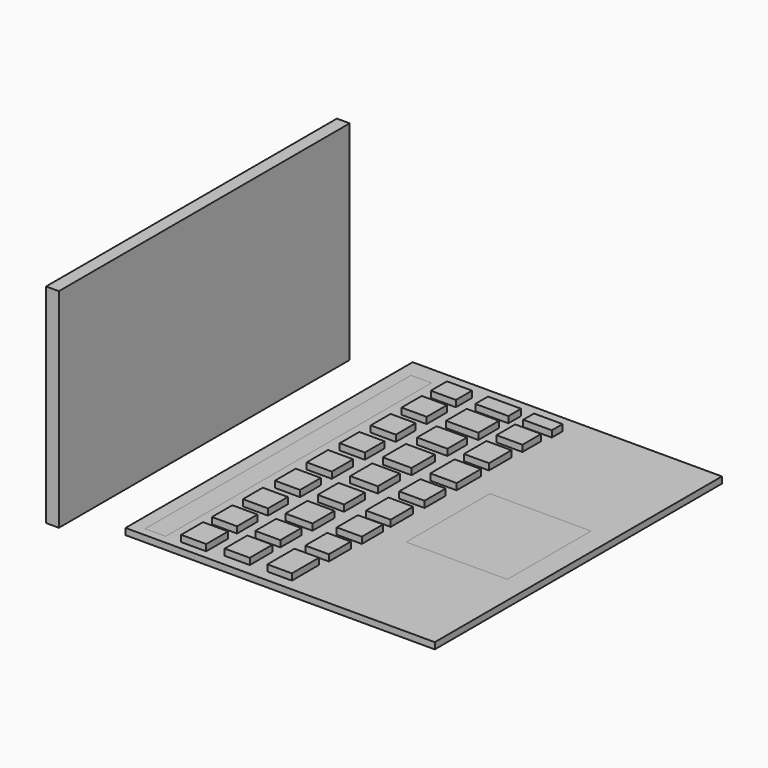
from build123d import *

# Parameters (mm, degrees)
F0_W      = 144.271791
F0_H      = 82.681909
F2_DEPTH  = 5.08
F1_W      = 40.154845
F1_H      = 41.569267
F3_DEPTH  = 2.54
F1_W_2    = 8.139372
F1_H_2    = 131.888136
F4_DEPTH  = 2.54
F1_W_3    = 9.963132
F1_H_3    = 10.002887
F5_DEPTH  = 5.08
F1_H_4    = 9.845652
F6_DEPTH  = 5.08
F1_H_5    = 10.589674
F7_DEPTH  = 5.08
F1_H_6    = 10.29627
F8_DEPTH  = 5.08
F1_H_7    = 9.709492
F9_DEPTH  = 5.08
F1_H_8    = 9.845651
F10_DEPTH = 5.08
F1_H_9    = 10.114737
F11_DEPTH = 5.08
F1_H_10   = 10.865256
F12_DEPTH = 5.08
F1_H_11   = 8.026641
F13_DEPTH = 5.08
F1_W_4    = 13.105952
F1_H_12   = 6.305161
F14_DEPTH = 5.08
F1_W_5    = 12.827978
F1_H_13   = 10.250882
F15_DEPTH = 5.08
F1_W_6    = 11.449412
F1_H_14   = 11.51523
F1_W_7    = 12.054004
F1_W_8    = 10.427423
F1_H_15   = 12.056619
F1_W_9    = 10.083005
F1_H_16   = 10.498893
F1_W_10   = 9.81719
F1_H_17   = 11.176452
F1_W_11   = 10.935597
F1_H_18   = 10.928448
F16_DEPTH = 5.08
F1_W_12   = 11.339948
F1_H_19   = 5.35202
F1_W_13   = 10.293655
F1_H_20   = 9.279936
F17_DEPTH = 5.08
F1_W_14   = 9.93707
F1_H_21   = 11.131063
F18_DEPTH = 5.08
F1_W_15   = 10.421783
F1_H_22   = 10.296278
F1_W_16   = 10.742769
F1_H_23   = 10.883055
F1_W_17   = 9.364203
F1_H_24   = 10.883056
F1_W_18   = 9.690806
F1_H_25   = 13.43932
F19_DEPTH = 5.08
F1_W_19   = 9.96878
F1_H_26   = 10.498889
F20_DEPTH = 5.08
F1_W_20   = 9.950973
F1_H_27   = 11.221833
F1_H_28   = 10.387056
F21_DEPTH = 5.08
F1_W_21   = 122.738719
F1_H_29   = 142.450686
F22_DEPTH = 2.54


with BuildPart() as f2:
    # F0 (on Right) → F2 (new body)
    with BuildSketch(Plane.YZ):
        with Locations((-72.135896, 41.340954)):
            Rectangle(F0_W, F0_H)
    extrude(amount=F2_DEPTH)


with BuildPart() as f3:
    # F1 (on Top) → F3 (new body)
    with BuildSketch(Plane.XY):
        with Locations((118.206426, -67.516102)):
            Rectangle(F1_W, F1_H)
    extrude(amount=F3_DEPTH)


with BuildPart() as f4:
    # F1 (on Top) → F4 (new body)
    with BuildSketch(Plane.XY):
        with Locations((33.478685, -65.944068)):
            Rectangle(F1_W_2, F1_H_2)
    extrude(amount=F4_DEPTH)


with BuildPart() as f5:
    # F1 (on Top) → F5 (new body)
    with BuildSketch(Plane.XY):
        with Locations((48.667062, -17.516461)):
            Rectangle(F1_W_3, F1_H_3)
    extrude(amount=F5_DEPTH)


with BuildPart() as f6:
    # F1 (on Top) → F6 (new body)
    with BuildSketch(Plane.XY):
        with Locations((48.667062, -32.900069)):
            Rectangle(F1_W_3, F1_H_4)
    extrude(amount=F6_DEPTH)


with BuildPart() as f7:
    # F1 (on Top) → F7 (new body)
    with BuildSketch(Plane.XY):
        with Locations((48.667062, -64.28729)):
            Rectangle(F1_W_3, F1_H_5)
    extrude(amount=F7_DEPTH)


with BuildPart() as f8:
    # F1 (on Top) → F8 (new body)
    with BuildSketch(Plane.XY):
        with Locations((48.667062, -80.189586)):
            Rectangle(F1_W_3, F1_H_6)
    extrude(amount=F8_DEPTH)


with BuildPart() as f9:
    # F1 (on Top) → F9 (new body)
    with BuildSketch(Plane.XY):
        with Locations((48.667062, -48.339594)):
            Rectangle(F1_W_3, F1_H_7)
    extrude(amount=F9_DEPTH)


with BuildPart() as f10:
    # F1 (on Top) → F10 (new body)
    with BuildSketch(Plane.XY):
        with Locations((48.667062, -96.30667)):
            Rectangle(F1_W_3, F1_H_8)
    extrude(amount=F10_DEPTH)


with BuildPart() as f11:
    # F1 (on Top) → F11 (new body)
    with BuildSketch(Plane.XY):
        with Locations((48.667062, -111.543577)):
            Rectangle(F1_W_3, F1_H_9)
    extrude(amount=F11_DEPTH)


with BuildPart() as f12:
    # F1 (on Top) → F12 (new body)
    with BuildSketch(Plane.XY):
        with Locations((48.667062, -126.455508)):
            Rectangle(F1_W_3, F1_H_10)
    extrude(amount=F12_DEPTH)


with BuildPart() as f13:
    # F1 (on Top) → F13 (new body)
    with BuildSketch(Plane.XY):
        with Locations((48.667062, -4.01332)):
            Rectangle(F1_W_3, F1_H_11)
    extrude(amount=F13_DEPTH)


with BuildPart() as f14:
    # F1 (on Top) → F14 (new body)
    with BuildSketch(Plane.XY):
        with Locations((66.547636, -3.152581)):
            Rectangle(F1_W_4, F1_H_12)
    extrude(amount=F14_DEPTH)


with BuildPart() as f15:
    # F1 (on Top) → F15 (new body)
    with BuildSketch(Plane.XY):
        with Locations((66.408649, -15.716374)):
            Rectangle(F1_W_5, F1_H_13)
    extrude(amount=F15_DEPTH)


with BuildPart() as f16:
    # F1 (on Top) → F16 (new body)
    with BuildSketch(Plane.XY):
        with Locations((65.719366, -46.483584)):
            Rectangle(F1_W_6, F1_H_14)
        with Locations((66.021662, -30.366503)):
            Rectangle(F1_W_7, F1_H_7)
        with Locations((83.452922, -45.41697)):
            Rectangle(F1_W_8, F1_H_15)
        with Locations((83.280712, -61.658056)):
            Rectangle(F1_W_9, F1_H_16)
        with Locations((83.147805, -77.79783)):
            Rectangle(F1_W_10, F1_H_17)
        with Locations((65.462458, -62.91675)):
            Rectangle(F1_W_11, F1_H_18)
    extrude(amount=F16_DEPTH)


with BuildPart() as f17:
    # F1 (on Top) → F17 (new body)
    with BuildSketch(Plane.XY):
        with Locations((83.909184, -2.67601)):
            Rectangle(F1_W_12, F1_H_19)
        with Locations((83.386038, -13.984366)):
            Rectangle(F1_W_13, F1_H_20)
    extrude(amount=F17_DEPTH)


with BuildPart() as f18:
    # F1 (on Top) → F18 (new body)
    with BuildSketch(Plane.XY):
        with Locations((83.207745, -29.198583)):
            Rectangle(F1_W_14, F1_H_21)
    extrude(amount=F18_DEPTH)


with BuildPart() as f19:
    # F1 (on Top) → F19 (new body)
    with BuildSketch(Plane.XY):
        with Locations((65.205551, -79.327222)):
            Rectangle(F1_W_15, F1_H_22)
        with Locations((65.366044, -95.082831)):
            Rectangle(F1_W_16, F1_H_23)
        with Locations((82.921312, -108.034175)):
            Rectangle(F1_W_17, F1_H_24)
        with Locations((81.814632, -123.939741)):
            Rectangle(F1_W_18, F1_H_25)
    extrude(amount=F19_DEPTH)


with BuildPart() as f20:
    # F1 (on Top) → F20 (new body)
    with BuildSketch(Plane.XY):
        with Locations((83.2236, -92.62788)):
            Rectangle(F1_W_19, F1_H_26)
    extrude(amount=F20_DEPTH)


with BuildPart() as f21:
    # F1 (on Top) → F21 (new body)
    with BuildSketch(Plane.XY):
        with Locations((64.970146, -125.048485)):
            Rectangle(F1_W_20, F1_H_27)
        with Locations((64.970146, -110.297043)):
            Rectangle(F1_W_20, F1_H_28)
    extrude(amount=F21_DEPTH)


with BuildPart() as f22:
    # F1 (on Top) → F22 (new body)
    with BuildSketch(Plane.XY):
        with Locations((85.666716, -64.005183)):
            Rectangle(F1_W_21, F1_H_29)
        with Locations((48.667062, -126.455508)):
            Rectangle(F1_W_3, F1_H_10, mode=Mode.SUBTRACT)
        with Locations((48.667062, -111.543577)):
            Rectangle(F1_W_3, F1_H_9, mode=Mode.SUBTRACT)
        with Locations((64.970146, -125.048485)):
            Rectangle(F1_W_20, F1_H_27, mode=Mode.SUBTRACT)
        with Locations((81.814632, -123.939741)):
            Rectangle(F1_W_18, F1_H_25, mode=Mode.SUBTRACT)
        with Locations((64.970146, -110.297043)):
            Rectangle(F1_W_20, F1_H_28, mode=Mode.SUBTRACT)
        with Locations((82.921312, -108.034175)):
            Rectangle(F1_W_17, F1_H_24, mode=Mode.SUBTRACT)
        with Locations((48.667062, -96.30667)):
            Rectangle(F1_W_3, F1_H_8, mode=Mode.SUBTRACT)
        with Locations((33.478685, -65.944068)):
            Rectangle(F1_W_2, F1_H_2, mode=Mode.SUBTRACT)
        with Locations((48.667062, -80.189586)):
            Rectangle(F1_W_3, F1_H_6, mode=Mode.SUBTRACT)
        with Locations((48.667062, -64.28729)):
            Rectangle(F1_W_3, F1_H_5, mode=Mode.SUBTRACT)
        with Locations((65.366044, -95.082831)):
            Rectangle(F1_W_16, F1_H_23, mode=Mode.SUBTRACT)
        with Locations((83.2236, -92.62788)):
            Rectangle(F1_W_19, F1_H_26, mode=Mode.SUBTRACT)
        with Locations((65.205551, -79.327222)):
            Rectangle(F1_W_15, F1_H_22, mode=Mode.SUBTRACT)
        with Locations((83.147805, -77.79783)):
            Rectangle(F1_W_10, F1_H_17, mode=Mode.SUBTRACT)
        with Locations((118.206426, -67.516102)):
            Rectangle(F1_W, F1_H, mode=Mode.SUBTRACT)
        with Locations((48.667062, -48.339594)):
            Rectangle(F1_W_3, F1_H_7, mode=Mode.SUBTRACT)
        with Locations((48.667062, -32.900069)):
            Rectangle(F1_W_3, F1_H_4, mode=Mode.SUBTRACT)
        with Locations((65.462458, -62.91675)):
            Rectangle(F1_W_11, F1_H_18, mode=Mode.SUBTRACT)
        with Locations((65.719366, -46.483584)):
            Rectangle(F1_W_6, F1_H_14, mode=Mode.SUBTRACT)
        with Locations((83.280712, -61.658056)):
            Rectangle(F1_W_9, F1_H_16, mode=Mode.SUBTRACT)
        with Locations((66.021662, -30.366503)):
            Rectangle(F1_W_7, F1_H_7, mode=Mode.SUBTRACT)
        with Locations((83.452922, -45.41697)):
            Rectangle(F1_W_8, F1_H_15, mode=Mode.SUBTRACT)
        with Locations((83.207745, -29.198583)):
            Rectangle(F1_W_14, F1_H_21, mode=Mode.SUBTRACT)
        with Locations((48.667062, -17.516461)):
            Rectangle(F1_W_3, F1_H_3, mode=Mode.SUBTRACT)
        with Locations((48.667062, -4.01332)):
            Rectangle(F1_W_3, F1_H_11, mode=Mode.SUBTRACT)
        with Locations((66.408649, -15.716374)):
            Rectangle(F1_W_5, F1_H_13, mode=Mode.SUBTRACT)
        with Locations((83.386038, -13.984366)):
            Rectangle(F1_W_13, F1_H_20, mode=Mode.SUBTRACT)
        with Locations((66.547636, -3.152581)):
            Rectangle(F1_W_4, F1_H_12, mode=Mode.SUBTRACT)
        with Locations((83.909184, -2.67601)):
            Rectangle(F1_W_12, F1_H_19, mode=Mode.SUBTRACT)
    extrude(amount=F22_DEPTH)


solid = Compound([f2.part, f3.part, f4.part, f5.part, f6.part, f7.part, f8.part, f9.part, f10.part, f11.part, f12.part, f13.part, f14.part, f15.part, f16.part, f17.part, f18.part, f19.part, f20.part, f21.part, f22.part])
